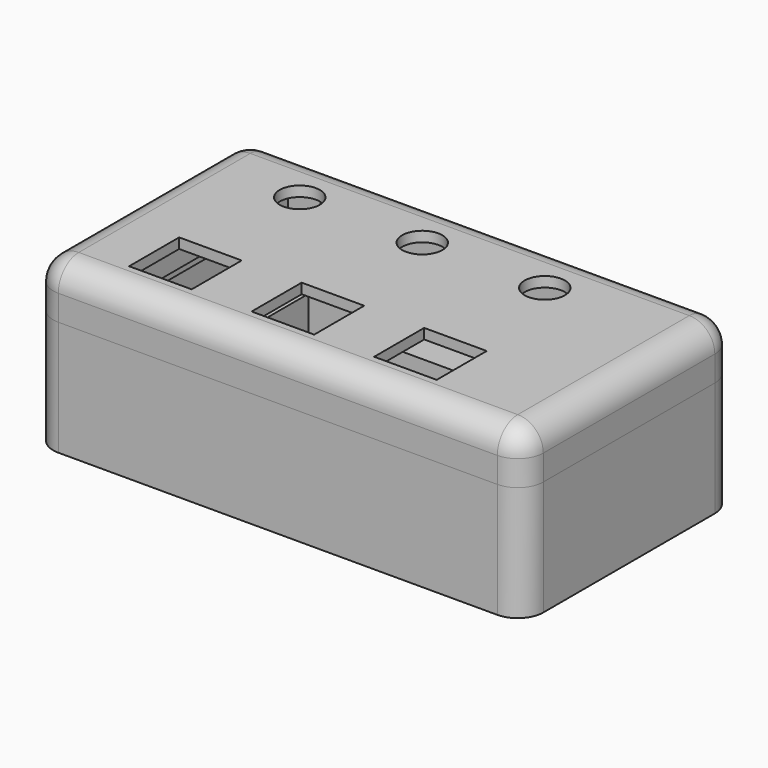
from build123d import *

# Parameters (mm, degrees)
SKETCH001_W     = 60.96
SKETCH001_H     = 33.02
PAD_DEPTH       = 1.27
SKETCH002_W     = 60.96
SKETCH002_H     = 33.02
SKETCH002_W_2   = 6.35
SKETCH002_H_2   = 30.48
PAD001_DEPTH    = 6.35
SKETCH003_R     = 0.87
POCKET_DEPTH    = 5.08
SKETCH004_W     = 60.96
SKETCH004_H     = 33.02
PAD002_DEPTH    = 7.9375
SKETCH009_R     = 1.127
POCKET001_DEPTH = 14.2885
FILLET001_R     = 3.175
CHAMFER_SIZE    = 0.762
FILLET_R        = 1.905
SKETCH006_W     = 60.96
SKETCH006_H     = 33.02
SKETCH006_R     = 2.5
SKETCH006_W_2   = 7.778
SKETCH006_H_2   = 7.778
PAD003_DEPTH    = 1.27
PAD004_DEPTH    = 3.6068
SKETCH008_W     = 60.96
SKETCH008_H     = 33.02
SKETCH008_R     = 0.87
SKETCH008_W_2   = 10.16
SKETCH008_H_2   = 3
PAD005_DEPTH    = 6.35
SKETCH010_W     = 6.35
SKETCH010_H     = 1.27
SKETCH010_W_2   = 1.27
SKETCH010_H_2   = 3.81
PAD006_DEPTH    = 7.62
FILLET002_R     = 3.175
SKETCH011_W     = 9.048
SKETCH011_H     = 9.048
SKETCH011_W_2   = 6.254
SKETCH011_H_2   = 6.254
PAD007_DEPTH    = 1.27
SKETCH012_W     = 7.524
SKETCH012_H     = 7.524
SKETCH012_W_2   = 6.254
SKETCH012_H_2   = 6.254
PAD008_DEPTH    = 2.54
PAD009_START    = 1.27
SKETCH013_W     = 7.524
SKETCH013_H     = 7.524
PAD009_DEPTH    = 1.27
FILLET003_R     = 0.508


with BuildPart() as bottom:
    # Sketch001 → Pad (new body)
    with BuildSketch(Plane.XY):
        with Locations((2.54, 0)):
            Rectangle(SKETCH001_W, SKETCH001_H)
    extrude(amount=PAD_DEPTH)

    # Sketch002 → Pad001 (join)
    with BuildSketch(Plane.XY):
        with Locations((2.54, 0)):
            Rectangle(SKETCH002_W, SKETCH002_H)
        Polygon((19.05, 11.43), (19.05, -15.24), (-19.05, -15.24), (-19.05, 15.24), (-8.89, 15.24), (-8.89, 11.43), align=None, mode=Mode.SUBTRACT)
        with Locations((28.575, 0)):
            Rectangle(SKETCH002_W_2, SKETCH002_H_2, mode=Mode.SUBTRACT)
    extrude(amount=PAD001_DEPTH)

    # Sketch003 → Pocket (cut)
    with BuildSketch(Plane.XY.offset(6.35)):
        with Locations((-22.86, 7.62)):
            Circle(SKETCH003_R)
        with Locations((-22.86, -10.16)):
            Circle(SKETCH003_R)
        with Locations((22.86, -10.16)):
            Circle(SKETCH003_R)
        with Locations((22.86, 7.62)):
            Circle(SKETCH003_R)
    extrude(amount=-POCKET_DEPTH, mode=Mode.SUBTRACT)

    # Sketch004 → Pad002 (join)
    with BuildSketch(Plane.XY.offset(6.35)):
        with Locations((2.54, 0)):
            Rectangle(SKETCH004_W, SKETCH004_H)
        Polygon((-26.67, -15.24), (-21.924, -15.24), (-21.924, -13.97), (-19.05, -13.97), (-19.05, -15.24), (19.05, -15.24), (19.05, -13.97), (22.78, -13.97), (22.78, -15.24), (31.75, -15.24), (31.75, 15.24), (-26.67, 15.24), align=None, mode=Mode.SUBTRACT)
    extrude(amount=PAD002_DEPTH)

    # Sketch009 → Pocket001 (cut, through all)
    with BuildSketch(Plane.XY):
        with Locations((-24.765, 13.335)):
            Circle(SKETCH009_R)
        with Locations((29.845, 13.335)):
            Circle(SKETCH009_R)
        with Locations((29.845, -13.335)):
            Circle(SKETCH009_R)
        with Locations((-24.765, -13.335)):
            Circle(SKETCH009_R)
    extrude(amount=POCKET001_DEPTH, mode=Mode.SUBTRACT)

    # Fillet001
    fillet001_edges = [bottom.edges().sort_by_distance(p)[0] for p in [
        (-27.94, 16.51, 7.14375),
        (-27.94, -16.51, 7.14375),
        (33.02, -16.51, 7.14375),
        (33.02, 16.51, 7.14375),
    ]]
    fillet(fillet001_edges, radius=FILLET001_R)

    # Chamfer
    chamfer_edges = [bottom.edges().sort_by_distance(p)[0] for p in [
        (28.718, 13.335, 0),
        (-25.892, 13.335, 0),
        (28.718, -13.335, 0),
        (-25.892, -13.335, 0),
    ]]
    chamfer(chamfer_edges, length=CHAMFER_SIZE)

    # Fillet
    fillet_edges = [bottom.edges().sort_by_distance(p)[0] for p in [
        (31.75, -15.24, 7.77875),
        (-26.67, -15.24, 10.31875),
        (31.75, 15.24, 7.77875),
        (-26.67, 15.24, 10.31875),
    ]]
    fillet(fillet_edges, radius=FILLET_R)


with BuildPart() as top:
    # Sketch006 (on DatumPlane) → Pad003 (new body)
    with BuildSketch(Plane.XY.offset(20.6375)):
        with Locations((2.54, 0)):
            Rectangle(SKETCH006_W, SKETCH006_H)
        with Locations((-15.24, 9.126994)):
            Circle(SKETCH006_R, mode=Mode.SUBTRACT)
        with Locations((0, 9.126994)):
            Circle(SKETCH006_R, mode=Mode.SUBTRACT)
        with Locations((15.24, 9.126994)):
            Circle(SKETCH006_R, mode=Mode.SUBTRACT)
        with Locations((-15.24, -8.653005)):
            Rectangle(SKETCH006_W_2, SKETCH006_H_2, mode=Mode.SUBTRACT)
        with Locations((0, -8.653005)):
            Rectangle(SKETCH006_W_2, SKETCH006_H_2, mode=Mode.SUBTRACT)
        with Locations((15.24, -8.653005)):
            Rectangle(SKETCH006_W_2, SKETCH006_H_2, mode=Mode.SUBTRACT)
    extrude(amount=-PAD003_DEPTH)

    # Sketch007 (on DatumPlane) → Pad004 (join)
    with BuildSketch(Plane.XY.offset(20.6375)):
        Polygon((-21.924, 3.013989), (22.78, 3.013989), (22.78, -15.24), (20.24, -15.24), (20.24, 1.743989), (-19.384, 1.743989), (-19.384, -15.24), (-21.924, -15.24), align=None)
    extrude(amount=-PAD004_DEPTH)

    # Sketch008 (on DatumPlane) → Pad005 (join)
    with BuildSketch(Plane.XY.offset(20.6375)):
        with Locations((2.54, 0)):
            Rectangle(SKETCH008_W, SKETCH008_H)
        with Locations((-24.765, 13.335)):
            Circle(SKETCH008_R, mode=Mode.SUBTRACT)
        with Locations((29.845, 13.335)):
            Circle(SKETCH008_R, mode=Mode.SUBTRACT)
        with Locations((29.845, -13.335)):
            Circle(SKETCH008_R, mode=Mode.SUBTRACT)
        with Locations((-24.765, -13.335)):
            Circle(SKETCH008_R, mode=Mode.SUBTRACT)
        with Locations((-19.384, 4.513989)):
            Circle(SKETCH008_R, mode=Mode.SUBTRACT)
        with Locations((20.24, 4.513989)):
            Circle(SKETCH008_R, mode=Mode.SUBTRACT)
        Polygon((-21.59, 15.24), (26.67, 15.24), (26.67, 10.16), (31.75, 10.16), (31.75, -10.16), (26.67, -10.16), (26.67, -15.24), (24.05, -15.24), (24.05, 6.013989), (17.78, 6.013989), (17.78, 3.013989), (22.78, 3.013989), (22.78, -15.24), (-21.924, -15.24), (-21.924, 3.013989), (-17.78, 3.013989), (-17.78, 6.013989), (-23.194, 6.013989), (-23.194, -10.16), (-26.67, -10.16), (-26.67, 10.16), (-21.59, 10.16), align=None, mode=Mode.SUBTRACT)
        with Locations((-7.62, 4.513989)):
            Rectangle(SKETCH008_W_2, SKETCH008_H_2)
        with Locations((7.62, 4.513989)):
            Rectangle(SKETCH008_W_2, SKETCH008_H_2)
    extrude(amount=-PAD005_DEPTH)

    # Sketch010 (on DatumPlane) → Pad006 (join)
    with BuildSketch(Plane.XY.offset(20.6375)):
        with Locations((-13.335, 14.605)):
            Rectangle(SKETCH010_W, SKETCH010_H)
        with Locations((18.415, 14.605)):
            Rectangle(SKETCH010_W, SKETCH010_H)
        with Locations((31.115, 5.715)):
            Rectangle(SKETCH010_W_2, SKETCH010_H_2)
        with Locations((31.115, -5.715)):
            Rectangle(SKETCH010_W_2, SKETCH010_H_2)
        with Locations((-26.035, -5.715)):
            Rectangle(SKETCH010_W_2, SKETCH010_H_2)
        with Locations((-26.035, 5.715)):
            Rectangle(SKETCH010_W_2, SKETCH010_H_2)
    extrude(amount=-PAD006_DEPTH)

    # Fillet002
    fillet002_edges = [top.edges().sort_by_distance(p)[0] for p in [
        (2.54, 16.51, 20.6375),
        (-27.94, 0, 20.6375),
        (33.02, 0, 20.6375),
        (2.54, -16.51, 20.6375),
        (-27.94, -16.51, 17.4625),
        (33.02, -16.51, 17.4625),
        (-27.94, 16.51, 17.4625),
        (33.02, 16.51, 17.4625),
    ]]
    fillet(fillet002_edges, radius=FILLET002_R)


with BuildPart() as button:
    # Sketch011 → Pad007 (new body)
    with BuildSketch(Plane.XY):
        Rectangle(SKETCH011_W, SKETCH011_H)
        Rectangle(SKETCH011_W_2, SKETCH011_H_2, mode=Mode.SUBTRACT)
    extrude(amount=-PAD007_DEPTH)

    # Sketch012 → Pad008 (join)
    with BuildSketch(Plane.XY):
        Rectangle(SKETCH012_W, SKETCH012_H)
        Rectangle(SKETCH012_W_2, SKETCH012_H_2, mode=Mode.SUBTRACT)
    extrude(amount=PAD008_DEPTH)

    # Sketch013 → Pad009 (join)
    with BuildSketch(Plane.XY.offset(PAD009_START)):
        Rectangle(SKETCH013_W, SKETCH013_H)
    extrude(amount=PAD009_DEPTH)

    # Fillet003
    fillet003_edges = [button.edges().sort_by_distance(p)[0] for p in [
        (-3.762, 3.762, 1.27),
        (3.762, 3.762, 1.27),
        (-3.762, -3.762, 1.27),
        (3.762, -3.762, 1.27),
        (0, -3.762, 2.54),
        (3.762, 0, 2.54),
        (0, 3.762, 2.54),
        (-3.762, 0, 2.54),
    ]]
    fillet(fillet003_edges, radius=FILLET003_R)


solid = Compound([bottom.part, top.part, button.part])
